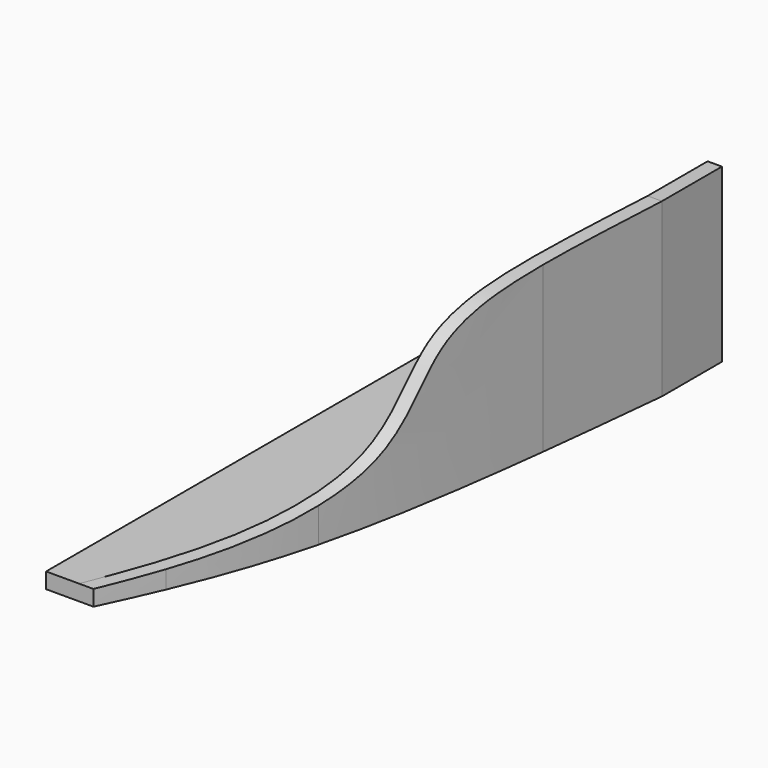
from build123d import *

# Parameters (mm, degrees)
F0_W     = 60
F0_H     = 220
F1_DEPTH = 60
F3_DEPTH = 60.001
F5_DEPTH = 60.0010001
F6_START = -5.46
F4_W     = 55
F4_H     = 26.17
F6_DEPTH = 74.54


with BuildPart() as f1:
    # F0 (on Top) → F1 (new body)
    with BuildSketch(Plane.XY):
        Rectangle(F0_W, F0_H)
    extrude(amount=F1_DEPTH)

    # F2 (on face) → F3 (cut, through all)
    with BuildSketch(Plane.YZ.offset(30)):
        with BuildLine():
            Line((-110, 60), (-110, 5.4592178203))
            add(Edge.make_bspline(
                [(-110, 5.4592178203), (-88.3301750343, 6.2141776062), (-17.4415363661, 7.8038979975), (-2.4796110185, 55.9141440318), (34.855034512, 58.1974692918), (83.83, 60)],
                knots=[0, 0, 0, 0, 0.3774214734, 0.6243161477, 1, 1, 1, 1], degree=3))
            Line((83.83, 60), (-110, 60))
        make_face()
    extrude(amount=-F3_DEPTH, mode=Mode.SUBTRACT)

    # F4 (on face) → F5 (cut, through all)
    with BuildSketch(Plane(origin=(0, 0, 0), x_dir=(1, 0, 0), z_dir=(0, 0, -1))):
        with BuildLine():
            add(Edge.make_bspline(
                [(25.1129814899, -37.9226556811), (26.8734855483, -52.9443126868), (28.4566374792, -68.3794013283), (30, -83.83)],
                knots=[0.8073169996, 0.8073169996, 0.8073169996, 0.8073169996, 1, 1, 1, 1], degree=3))
            Line((30, -83.83), (30, 110))
            Line((30, 110), (-13.4503107729, 110))
            add(Edge.make_bspline(
                [(-13.4503107729, 110), (-10.3085935059, 103.3156568841), (-7.2413287965, 96.6211419831), (-4.3029165498, 89.709023616)],
                knots=[0, 0, 0, 0, 0.1408268689, 0.1408268689, 0.1408268689, 0.1408268689], degree=3))
            add(Edge.make_bspline(
                [(-4.3029165498, 89.709023616), (1.6785085714, 75.6387315772), (7.1260131715, 60.666765223), (11.5807438269, 43.0434755981)],
                knots=[0.1408268689, 0.1408268689, 0.1408268689, 0.1408268689, 0.4274937151, 0.4274937151, 0.4274937151, 0.4274937151], degree=3))
            add(Edge.make_bspline(
                [(11.5807438269, 43.0434755981), (17.4831020937, 19.6932492321), (21.6426160071, -8.3114544361), (25.1129814899, -37.9226556811)],
                knots=[0.4274937151, 0.4274937151, 0.4274937151, 0.4274937151, 0.8073169996, 0.8073169996, 0.8073169996, 0.8073169996], degree=3))
        make_face()
    extrude(amount=-F5_DEPTH, mode=Mode.SUBTRACT)

    # F4 (on face) → F6 (cut)
    with BuildSketch(Plane(origin=(0, 0, 0), x_dir=(1, 0, 0), z_dir=(0, 0, -1)).offset(F6_START)):
        with BuildLine():
            Line((-30, -83.83), (25, -83.83))
            add(Edge.make_bspline(
                [(6.5807438269, 43.0434755981), (15.6026307937, 7.8522057541), (20.3013153969, -37.988897123), (25, -83.83)],
                knots=[0.4274937151, 0.4274937151, 0.4274937151, 0.4274937151, 1, 1, 1, 1], degree=3))
            add(Edge.make_bspline(
                [(-18.4503107729, 110), (-9.3031307537, 89.6604989609), (-0.1559507346, 69.3209979217), (6.5807438269, 43.0434755981)],
                knots=[0, 0, 0, 0, 0.4274937151, 0.4274937151, 0.4274937151, 0.4274937151], degree=3))
            Line((-18.4503107729, 110), (-30, 110))
            Line((-30, 110), (-30, -83.83))
        make_face()
        with Locations((-2.5, -96.915)):
            Rectangle(F4_W, F4_H)
    extrude(amount=-F6_DEPTH, mode=Mode.SUBTRACT)


solid = f1.part
